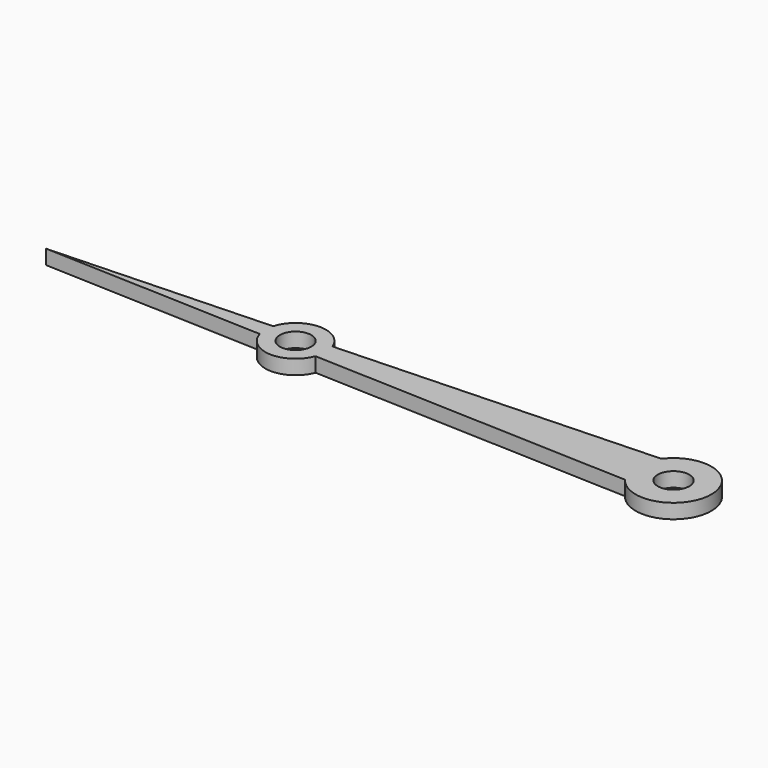
from build123d import *

# Parameters (mm, degrees)
F0_R     = 1.651
F1_DEPTH = 1.524


with BuildPart() as f1:
    # F0 (on Top) → F1 (new body)
    with BuildSketch(Plane.XY):
        with BuildLine():
            Line((-36.648669, -1.108164), (-3.175, -2.38125))
            ThreePointArc((-3.175, -2.38125), (3.96875, 0), (-3.175, 2.38125))
            Line((-3.175, 2.38125), (-36.648669, 1.108164))
            ThreePointArc((-36.648669, 1.108164), (-39.744666, 3.172706), (-42.674907, 0.878972))
            Line((-42.674907, 0.878972), (-65.786, 0))
            Line((-65.786, 0), (-42.674907, -0.878972))
            ThreePointArc((-42.674907, -0.878972), (-39.744666, -3.172706), (-36.648669, -1.108164))
        make_face()
        with Locations((-39.624, 0)):
            Circle(F0_R, mode=Mode.SUBTRACT)
        Circle(F0_R, mode=Mode.SUBTRACT)
    extrude(amount=F1_DEPTH)


solid = f1.part
